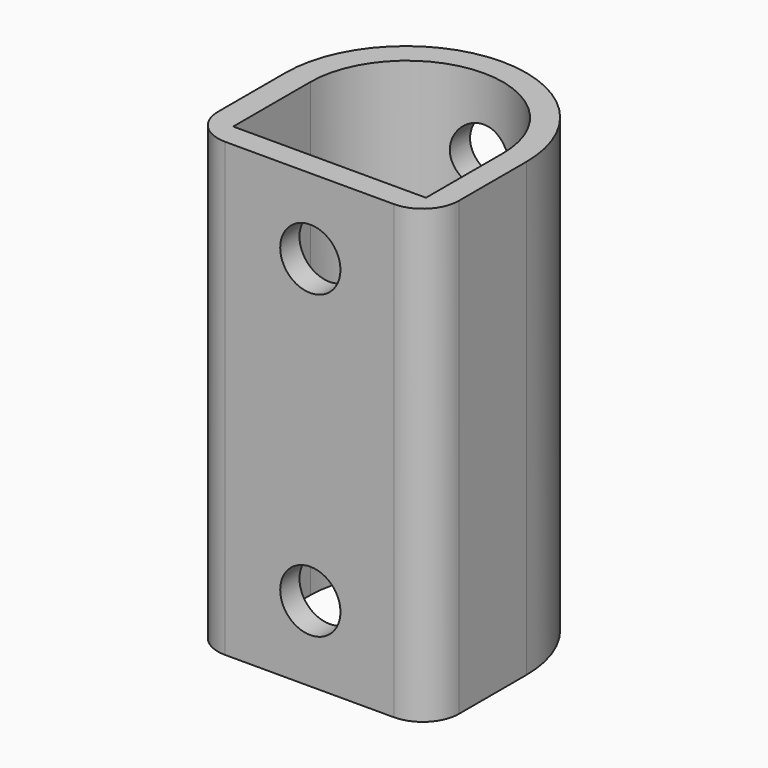
from build123d import *

# Parameters (mm, degrees)
F1_DEPTH      = 75
F3_DEPTH      = 75
F5_R          = 6
F6_R          = 6
F4_R          = 5
F7_DEPTH      = 25
F7_DEPTH_BACK = 36.001


with BuildPart() as f1:
    # F0 (on Top) → F1 (new body)
    with BuildSketch(Plane.XY):
        with BuildLine():
            ThreePointArc((40, 20), (20, 40), (0, 20))
            Line((0, 20), (40, 20))
        make_face()
        with BuildLine():
            ThreePointArc((0, 20), (5.8578643763, 5.8578643763), (20, 0))
            ThreePointArc((20, 0), (34.1421356237, 5.8578643763), (40, 20))
            Line((40, 20), (0, 20))
        make_face()
        with BuildLine():
            ThreePointArc((40, 20), (34.1421356237, 5.8578643763), (20, 0))
            Line((20, 0), (40, 0))
            Line((40, 0), (40, 20))
        make_face()
        with BuildLine():
            Line((0, 20), (0, 0))
            Line((0, 0), (20, 0))
            ThreePointArc((20, 0), (5.8578643763, 5.8578643763), (0, 20))
        make_face()
    extrude(amount=F1_DEPTH)

    # F2 (on face) → F3 (cut)
    with BuildSketch(Plane.XY.offset(75)):
        with BuildLine():
            ThreePointArc((36.1371551045, 20), (20.1371551045, 36), (4.1371551045, 20))
            Line((4.1371551045, 20), (36.1371551045, 20))
        make_face()
        with BuildLine():
            Line((36.1371551045, 20), (4.1371551045, 20))
            ThreePointArc((4.1371551045, 20), (8.8234466055, 8.686291501), (20.1371551045, 4))
            ThreePointArc((20.1371551045, 4), (31.4508636035, 8.686291501), (36.1371551045, 20))
        make_face()
        with BuildLine():
            ThreePointArc((20.1371551045, 4), (8.8234466055, 8.686291501), (4.1371551045, 20))
            Line((4.1371551045, 20), (4.1371551045, 4))
            Line((4.1371551045, 4), (20.1371551045, 4))
        make_face()
        with BuildLine():
            Line((36.1371551045, 4), (36.1371551045, 20))
            ThreePointArc((36.1371551045, 20), (31.4508636035, 8.686291501), (20.1371551045, 4))
            Line((20.1371551045, 4), (36.1371551045, 4))
        make_face()
    extrude(amount=-F3_DEPTH, mode=Mode.SUBTRACT)

    # F5
    f5_edges = [f1.edges().sort_by_distance(p)[0] for p in [
        (40, 0, 37.5),
    ]]
    fillet(f5_edges, radius=F5_R)

    # F6
    f6_edges = [f1.edges().sort_by_distance(p)[0] for p in [
        (0, 0, 37.5),
    ]]
    fillet(f6_edges, radius=F6_R)

    # F4 (on face) → F7 (cut, two sides)
    with BuildSketch(Plane(origin=(0, 4, 0), x_dir=(-1, 0, 0), z_dir=(0, 1, 0))) as f7_sk:
        with Locations((-20.1371551045, 12.5)):
            Circle(F4_R)
        with Locations((-20.1371551045, 62.5)):
            Circle(F4_R)
    extrude(amount=-F7_DEPTH, mode=Mode.SUBTRACT)
    extrude(f7_sk.sketch, amount=F7_DEPTH_BACK, mode=Mode.SUBTRACT)


solid = f1.part
